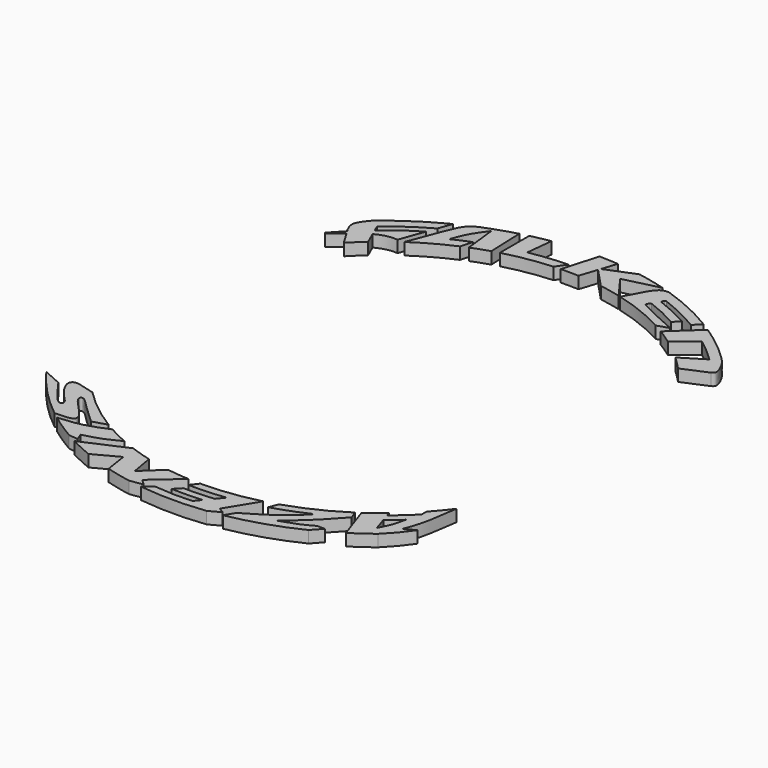
from build123d import *

# Parameters (mm, degrees)
F1_DEPTH = 2
F3_DEPTH = 2


with BuildPart() as f1:
    # F0 (on Top) → F1 (new body)
    with BuildSketch(Plane.XY):
        with BuildLine():
            ThreePointArc((26.2582889127, 28.6259775988), (27.3931080033, 27.5420036313), (28.4832176062, 26.4130771572))
            Line((28.4832176062, 26.4130771572), (32.5973681702, 28.1794866252))
            add(Edge.make_bspline(
                [(31.0981002601, 32.2813575249), (31.4402835186, 31.9296557978), (32.1412841128, 31.1525085066), (33.0599491094, 29.3843422979), (33.0908551063, 28.4427756858), (32.7474419474, 28.259593641), (32.5973681702, 28.1794866252)],
                knots=[0, 0, 0, 0, 0.2933334987, 0.6254018096, 0.836373223, 1, 1, 1, 1], degree=3))
            ThreePointArc((31.0981002601, 32.2813575249), (28.0081214449, 34.9960428701), (24.68231135, 37.4160579144))
            Line((24.68231135, 37.4160579144), (20.1408342523, 33.2158264346))
            ThreePointArc((20.1408342523, 33.2158264346), (21.4132390695, 32.4101453663), (22.6534570542, 31.5557477111))
            Line((22.6534570542, 31.5557477111), (26.1470646646, 34.3757998644))
            ThreePointArc((26.1470646646, 34.3757998644), (28.1718920467, 32.7369684822), (30.0942376703, 30.9790488223))
            Line((30.0942376703, 30.9790488223), (26.2582889127, 28.6259775988))
        make_face()
    extrude(amount=F1_DEPTH)


with BuildPart() as f1b:
    # F0 (on Top) → F1, piece 2 (new body)
    with BuildSketch(Plane.XY):
        with BuildLine():
            ThreePointArc((-28.0335926799, 26.8898124123), (-26.9033570604, 28.0205943725), (-25.7275480687, 29.1039103985))
            Line((-25.7275480687, 29.1039103985), (-26.6391176158, 31.1987231682))
            add(Edge.make_bspline(
                [(-26.6391176158, 31.1987231682), (-27.5035052922, 30.7377688529), (-28.4535119643, 30.0345111798), (-29.4392433492, 29.230151902)],
                knots=[0.5150023749, 0.5150023749, 0.5150023749, 0.5150023749, 0.7976336827, 0.7976336827, 0.7976336827, 0.7976336827], degree=3))
            Line((-29.4392433492, 29.230151902), (-28.0335926799, 26.8898124123))
        make_face()
        with BuildLine():
            add(Edge.make_bspline(
                [(-26.6391176158, 31.1987231682), (-27.5035052922, 30.7377688529), (-28.4535119643, 30.0345111798), (-29.4392433492, 29.230151902)],
                knots=[0.5150023749, 0.5150023749, 0.5150023749, 0.5150023749, 0.7976336827, 0.7976336827, 0.7976336827, 0.7976336827], degree=3))
            add(Edge.make_bspline(
                [(-23.0888687074, 31.9850742817), (-23.4276484172, 32.0063325219), (-24.283949242, 32.0600649272), (-25.6872002675, 31.7063546644), (-26.6391176158, 31.1987231682)],
                knots=[0, 0, 0, 0, 0.2037512403, 0.5150023749, 0.5150023749, 0.5150023749, 0.5150023749], degree=3))
            Line((-23.0888687074, 31.9850742817), (-21.5931204989, 36.1139637727))
            ThreePointArc((-21.5931204989, 36.1139637727), (-24.4137356115, 34.2702603688), (-27.0777714317, 32.2067621246))
            Line((-27.0777714317, 32.2067621246), (-27.5404240966, 33.2699511192))
            ThreePointArc((-27.5404240966, 33.2699511192), (-24.3751840736, 35.6541022643), (-21.0047500685, 37.7381117897))
            Line((-21.0047500685, 37.7381117897), (-20.1757696644, 40.0264437827))
            ThreePointArc((-20.1757696644, 40.0264437827), (-24.7902532423, 37.3446278281), (-29.053267131, 34.1333495639))
            add(Edge.make_bspline(
                [(-30.0712297066, 30.2823782209), (-30.2768548387, 30.7288172116), (-30.688157594, 31.6183899209), (-30.0455886032, 32.9442767829), (-29.4035461755, 33.7388064708), (-29.053267131, 34.1333495639)],
                knots=[0, 0, 0, 0, 0.3285202685, 0.651688533, 1, 1, 1, 1], degree=3))
            Line((-30.0712297066, 30.2823782209), (-29.7531671484, 29.7528196461))
            Line((-29.7531671484, 29.7528196461), (-31.7605539053, 27.5997907218))
            Line((-31.7605539053, 27.5997907218), (-31.5932482481, 27.3987054825))
            add(Edge.make_bspline(
                [(-29.4392433492, 29.230151902), (-30.1450350456, 28.6542241108), (-30.8691416468, 28.0264647966), (-31.5932482481, 27.3987054825)],
                knots=[0.7976336827, 0.7976336827, 0.7976336827, 0.7976336827, 1, 1, 1, 1], degree=3))
        make_face()
    extrude(amount=F1_DEPTH)


with BuildPart() as f1c:
    # F0 (on Top) → F1, piece 3 (new body)
    with BuildSketch(Plane.XY):
        with BuildLine():
            ThreePointArc((-21.9772970606, 32.0303409913), (-18.8129690759, 33.9855340499), (-15.476141974, 35.6291083205))
            Line((-15.476141974, 35.6291083205), (-14.9158977634, 37.6451386156))
            ThreePointArc((-14.9158977634, 37.6451386156), (-16.4193059824, 37.0141440335), (-17.8960931665, 36.3231374864))
            add(Edge.make_bspline(
                [(-15.0197381154, 41.5827184916), (-15.6187246454, 40.7912353478), (-16.8146461836, 39.1920038459), (-17.5415895432, 37.2941119434), (-17.8960931665, 36.3231374864)],
                knots=[0, 0, 0, 0, 0.4963820199, 1, 1, 1, 1], degree=3))
            Line((-15.0197381154, 41.5827184916), (-14.3913667376, 36.0809214618))
            ThreePointArc((-14.3913667376, 36.0809214618), (-12.9265769812, 36.6312426442), (-11.4408121381, 37.1221247739))
            Line((-11.4408121381, 37.1221247739), (-11.6697197257, 43.2781183158))
            ThreePointArc((-11.6697197257, 43.2781183158), (-14.4055360153, 42.4459469861), (-17.0827228781, 41.4410239075))
            add(Edge.make_bspline(
                [(-21.9772970606, 32.0303409913), (-21.2006366288, 34.0856755518), (-19.8865605361, 37.5894509534), (-18.6800928553, 40.5334365594), (-17.5710488372, 41.1866529421), (-17.0827228781, 41.4410239075)],
                knots=[0, 0, 0, 0, 0.4504457191, 0.7646007457, 1, 1, 1, 1], degree=3))
        make_face()
    extrude(amount=F1_DEPTH)


with BuildPart() as f1d:
    # F0 (on Top) → F1, piece 4 (new body)
    with BuildSketch(Plane.XY):
        with BuildLine():
            ThreePointArc((-10.2809115036, 37.4599411207), (-6.3408030761, 38.3241248623), (-2.3323204192, 38.7750514064))
            Line((-2.3323204192, 38.7750514064), (-1.1537274928, 40.4760346421))
            ThreePointArc((-1.1537274928, 40.4760346421), (-4.3576216427, 40.2573173609), (-7.5341078503, 39.7853953905))
            Line((-7.5341078503, 39.7853953905), (-7.0600686947, 44.264357145))
            ThreePointArc((-7.0600686947, 44.264357145), (-8.676309736, 43.9761245769), (-10.2809115036, 43.628898016))
            Line((-10.2809115036, 43.628898016), (-10.2809115036, 37.4599411207))
        make_face()
    extrude(amount=F1_DEPTH)


with BuildPart() as f1e:
    # F0 (on Top) → F1, piece 5 (new body)
    with BuildSketch(Plane.XY):
        with BuildLine():
            ThreePointArc((-1.1537274928, 38.8279956086), (0.3416184918, 38.8436304549), (1.8364581869, 38.8016977907))
            Line((1.8364581869, 38.8016977907), (2.8014320172, 41.7335159462))
            Line((2.8014320172, 41.7335159462), (5.9416488852, 38.3880337949))
            ThreePointArc((5.9416488852, 38.3880337949), (7.7292541226, 38.0683984535), (9.4999675803, 37.6655671149))
            Line((9.4999675803, 37.6655671149), (6.6716716152, 41.5447954636))
            Line((6.6716716152, 41.5447954636), (12.6044893248, 43.0151686303))
            ThreePointArc((12.6044893248, 43.0151686303), (10.2384241124, 43.638888106), (7.8418486994, 44.1325649879))
            Line((7.8418486994, 44.1325649879), (2.9362746302, 42.1431996172))
            Line((2.9362746302, 42.1431996172), (3.7664058475, 44.6653341018))
            ThreePointArc((3.7664058475, 44.6653341018), (2.1694049032, 44.771325263), (0.5696380277, 44.8202342247))
            Line((0.5696380277, 44.8202342247), (-1.1537274928, 38.8279956086))
        make_face()
    extrude(amount=F1_DEPTH)


with BuildPart() as f1f:
    # F0 (on Top) → F1, piece 6 (new body)
    with BuildSketch(Plane.XY):
        with BuildLine():
            ThreePointArc((9.8401867527, 37.578119362), (14.3187888015, 36.1097856179), (18.5865972152, 34.1098627096))
            Line((18.5865972152, 34.1098627096), (20.52414231, 34.7317233682))
            add(Edge.make_bspline(
                [(20.52414231, 34.7317233682), (19.1820271071, 35.2923512607), (16.9069582145, 36.3532880404), (14.7834996687, 37.383504279), (13.8984129971, 37.8670263978)],
                knots=[0, 0, 0, 0, 0.523945873, 0.9744418223, 0.9744418223, 0.9744418223, 0.9744418223], degree=3))
            ThreePointArc((13.8984129971, 37.8670263978), (13.814284528, 37.9695446818), (13.8248872297, 38.1017384055))
            Line((13.8248872297, 38.1017384055), (14.0431799453, 38.5383260572))
            ThreePointArc((14.0431799453, 38.5383260572), (14.137489648, 38.6242391204), (14.2650643086, 38.6245227159))
            add(Edge.make_bspline(
                [(19.530063495, 36.1705198884), (18.6315045568, 36.6629726021), (16.9098491293, 37.5701040966), (15.1220331412, 38.2959887351), (14.2650643086, 38.6245227159)],
                knots=[0, 0, 0, 0, 0.5039758893, 0.9726273638, 0.9726273638, 0.9726273638, 0.9726273638], degree=3))
            Line((19.530063495, 36.1705198884), (20.5503012985, 37.1645987034))
            add(Edge.make_bspline(
                [(20.5503012985, 37.1645987034), (19.5041253296, 37.7189203292), (17.5838857808, 38.7363689616), (15.8376674941, 39.4392548711), (15.0455915624, 39.7541801145)],
                knots=[0, 0, 0, 0, 0.5248873881, 0.9634225516, 0.9634225516, 0.9634225516, 0.9634225516], degree=3))
            ThreePointArc((15.0455915624, 39.7541801145), (14.942591447, 39.8639423823), (14.9611861862, 40.0133111036))
            Line((14.9611861862, 40.0133111036), (15.1405068255, 40.297692314))
            ThreePointArc((15.1405068255, 40.297692314), (15.2342369659, 40.3712354285), (15.3533501524, 40.3687904945))
            ThreePointArc((15.3533501524, 40.3687904945), (18.7908775239, 38.8878840869), (22.0872774466, 37.1149131995))
            Line((22.0872774466, 37.1149131995), (23.2727581453, 38.3087015148))
            ThreePointArc((23.2727581453, 38.3087015148), (18.8000944556, 40.6907155491), (14.0871522904, 42.552673521))
            add(Edge.make_bspline(
                [(9.8401867527, 37.578119362), (10.4356905315, 38.7476373946), (11.4537265821, 40.7442347283), (12.6146507969, 42.3476410039), (13.4983983359, 42.5508114295), (13.9056985036, 42.5688336221), (14.0871522904, 42.552673521)],
                knots=[0, 0, 0, 0, 0.3896962858, 0.66482844, 0.8470269389, 1, 1, 1, 1], degree=3))
        make_face()
    extrude(amount=F1_DEPTH)


with BuildPart() as f3:
    # F2 (on Top) → F3 (new body)
    with BuildSketch(Plane.XY):
        with BuildLine():
            ThreePointArc((-19.8470610316, -32.7244271318), (-23.7304977414, -30.0276112877), (-27.2517885788, -26.8725507155))
            add(Edge.make_bspline(
                [(-27.2517885788, -26.8725507155), (-28.0788842834, -26.6225845305), (-29.4993517598, -26.1932885809), (-30.8653966207, -25.9954442551), (-31.4230696327, -26.5561917717), (-31.3021732535, -27.611952944), (-30.0144885381, -29.5849223983), (-28.6251044701, -30.8384018372), (-28.3123646067, -31.4279188361), (-28.3746261005, -31.8293795015), (-29.1460513462, -31.9433971905), (-30.8947435626, -29.6791188216), (-31.934174577, -28.2389223302), (-32.461091876, -27.5088455528)],
                knots=[0, 0, 0, 0, 0.1228794116, 0.2110350793, 0.2721717201, 0.3480792723, 0.470188104, 0.5787089334, 0.6392988035, 0.6823618259, 0.7384896659, 0.867432935, 1, 1, 1, 1], degree=3))
            Line((-32.461091876, -27.5088455528), (-35.6186809362, -26.0928972103))
            ThreePointArc((-35.6186809362, -26.0928972103), (-31.8107592031, -30.6203415294), (-27.4317697007, -34.5980884955))
            add(Edge.make_bspline(
                [(-27.4317697007, -34.5980884955), (-26.6896000258, -34.5779160543), (-25.4338686145, -34.5325249129), (-24.3000294453, -34.2389796363), (-24.2483387254, -33.2353603941), (-25.883461408, -31.4386536129), (-27.5516915325, -29.7938915868), (-27.6339592507, -28.8589068797), (-26.8490060786, -28.93397863), (-25.6053565649, -30.3400278712), (-23.5206250605, -32.2514123968), (-22.2215149552, -33.4425009787)],
                knots=[0, 0, 0, 0, 0.1267045448, 0.2135413186, 0.2876724803, 0.4250648141, 0.5622004983, 0.6308527305, 0.6922157657, 0.8081230809, 1, 1, 1, 1], degree=3))
            Line((-22.2215149552, -33.4425009787), (-19.8470610316, -32.7244271318))
        make_face()
    extrude(amount=F3_DEPTH)


with BuildPart() as f3b:
    # F2 (on Top) → F3, piece 2 (new body)
    with BuildSketch(Plane.XY):
        with BuildLine():
            ThreePointArc((4.1731362086, -40.4661722481), (1.6326218432, -40.6480098916), (-0.9142923679, -40.6705081317))
            Line((-0.9142923679, -40.6705081317), (-1.9983645916, -41.7864997492))
            ThreePointArc((-1.9983645916, -41.7864997492), (0.5762841082, -41.830287101), (3.148749404, -41.7155894064))
            Line((3.148749404, -41.7155894064), (2.2870490793, -42.7665822208))
            add(Edge.make_bspline(
                [(-4.0507898666, -42.6212437451), (-2.8567916629, -42.7326726785), (-0.5862783812, -42.9445665261), (1.3628918859, -42.8238278631), (2.2870490793, -42.7665822208)],
                knots=[0, 0, 0, 0, 0.5258714905, 1, 1, 1, 1], degree=3))
            Line((-4.0507898666, -42.6212437451), (-5.5511854117, -43.8031283927))
            ThreePointArc((-5.5511854117, -43.8031283927), (-0.0351262234, -44.1534651257), (5.481483402, -43.8119054159))
            Line((5.481483402, -43.8119054159), (7.3630903361, -42.7885097751))
            Line((7.3630903361, -42.7885097751), (6.4263283275, -42.2147996724))
            Line((6.4263283275, -42.2147996724), (9.588141816, -37.0521456763))
            ThreePointArc((9.588141816, -37.0521456763), (4.8327538131, -37.9662804773), (0, -38.2726268069))
            Line((0, -38.2726268069), (-1.0032423929, -39.5537174836))
            ThreePointArc((-1.0032423929, -39.5537174836), (2.1004677478, -39.5106453669), (5.1912505821, -39.2244054061))
            Line((5.1912505821, -39.2244054061), (4.1731362086, -40.4661722481))
        make_face()
    extrude(amount=F3_DEPTH)


with BuildPart() as f3c:
    # F2 (on Top) → F3, piece 3 (new body)
    with BuildSketch(Plane.XY):
        with BuildLine():
            ThreePointArc((30.6927731078, -22.8636751563), (29.4539887292, -24.4388320228), (28.1344567786, -25.9469902777))
            Line((28.1344567786, -25.9469902777), (28.1344567786, -27.0250886679))
            Line((28.1344567786, -27.0250886679), (24.7914239377, -30.0658838374))
            Line((24.7914239377, -30.0658838374), (24.5619869854, -29.3513672259))
            ThreePointArc((24.5619869854, -29.3513672259), (23.1486237911, -30.4784379403), (21.6836171457, -31.5375127456))
            Line((21.6836171457, -31.5375127456), (23.6601067004, -37.2790700982))
            ThreePointArc((23.6601067004, -37.2790700982), (25.4144582228, -36.105886358), (27.1107450873, -34.850211151))
            add(Edge.make_bspline(
                [(30.4980836809, -30.8185182512), (30.0027426474, -31.5173851174), (28.9868792163, -32.9169972396), (27.7539307631, -34.2165783638), (27.1107450873, -34.850211151)],
                knots=[0, 0, 0, 0, 0.4945575154, 1, 1, 1, 1], degree=3))
            Line((30.4980836809, -30.8185182512), (28.7343524396, -31.7543745041))
            add(Edge.make_bspline(
                [(30.6927731078, -22.8636751563), (30.4144220404, -24.9518454437), (29.9288262815, -28.5947509467), (29.0916473445, -30.8092576176), (28.7343524396, -31.7543745041)],
                knots=[0, 0, 0, 0, 0.5732156065, 1, 1, 1, 1], degree=3))
        make_face()
        with BuildLine():
            Line((25.9335879236, -33.6228311062), (25.2142271856, -31.3825851836))
            Line((25.2142271856, -31.3825851836), (27.4799652398, -29.4310487807))
            add(Edge.make_bspline(
                [(27.4799652398, -29.4310487807), (27.3345662304, -30.115533736), (27.0353707012, -31.5240360316), (26.3076570871, -32.9102636803), (25.9335879236, -33.6228311062)],
                knots=[0, 0, 0, 0, 0.4859665174, 1, 1, 1, 1], degree=3))
        make_face(mode=Mode.SUBTRACT)
    extrude(amount=F3_DEPTH)


with BuildPart() as f3d:
    # F2 (on Top) → F3, piece 4 (new body)
    with BuildSketch(Plane.XY):
        with BuildLine():
            ThreePointArc((20.9740845668, -32.0137742118), (16.4939700309, -34.5361103096), (11.7162060574, -36.4352093218))
            Line((11.7162060574, -36.4352093218), (11.1344441931, -37.9674494084))
            ThreePointArc((11.1344441931, -37.9674494084), (14.1279367549, -36.9581447738), (17.0313672255, -35.7132411368))
            add(Edge.make_bspline(
                [(8.9086256921, -41.807256639), (10.2558349505, -41.0377050302), (12.9080959883, -39.5382412074), (16.5090118009, -36.4242900324), (16.9225009417, -35.8849099671), (17.0313672255, -35.7132411368)],
                knots=[0, 0, 0, 0, 0.4227073661, 0.831986091, 1, 1, 1, 1], degree=3))
            Line((8.9086256921, -41.807256639), (7.9120522951, -43.4387976921))
            ThreePointArc((7.9120522951, -43.4387976921), (13.7396987364, -41.9612963943), (19.3126098088, -39.7058285247))
            Line((19.3126098088, -39.7058285247), (20.7725632936, -38.0927063525))
            Line((20.7725632936, -38.0927063525), (19.4793175906, -38.0927063525))
            add(Edge.make_bspline(
                [(14.3525190651, -40.2404181659), (15.4228236263, -39.8935216932), (17.4021643719, -39.2519974506), (18.825591473, -38.4575609342), (19.4793175906, -38.0927063525)],
                knots=[0, 0, 0, 0, 0.5407379015, 1, 1, 1, 1], degree=3))
            add(Edge.make_bspline(
                [(21.4845405536, -33.3472733799), (20.4859687565, -34.4763285058), (18.3420701991, -36.8738400395), (15.7353680148, -39.0735026735), (14.3525190651, -40.2404181659)],
                knots=[0.0383854953, 0.0383854953, 0.0383854953, 0.0383854953, 0.4898659249, 1, 1, 1, 1], degree=3))
            Line((21.4845405536, -33.3472733799), (20.9740845668, -32.0137742118))
        make_face()
    extrude(amount=F3_DEPTH)


with BuildPart() as f3e:
    # F2 (on Top) → F3, piece 5 (new body)
    with BuildSketch(Plane.XY):
        with BuildLine():
            ThreePointArc((-2.0478203775, -38.2178020614), (-3.9013851649, -38.073260387), (-5.7457435331, -37.8388741105))
            Line((-5.7457435331, -37.8388741105), (-8.9486721447, -40.865955136))
            Line((-8.9486721447, -40.865955136), (-9.6032538529, -37.0482317815))
            ThreePointArc((-9.6032538529, -37.0482317815), (-11.3929990021, -36.5375633621), (-13.1558017914, -35.940490285))
            Line((-13.1558017914, -35.940490285), (-20.4269766744, -39.14419932))
            ThreePointArc((-20.4269766744, -39.14419932), (-18.5926072839, -40.0480295501), (-16.7183559982, -40.865955136))
            Line((-16.7183559982, -40.865955136), (-12.6238742885, -38.6725220302))
            Line((-12.6238742885, -38.6725220302), (-12.0259371965, -42.4841917777))
            ThreePointArc((-12.0259371965, -42.4841917777), (-9.9529273689, -43.0170774606), (-7.8565284577, -43.4488742898))
            Line((-7.8565284577, -43.4488742898), (-5.6467281348, -43.1224302903))
            Line((-5.6467281348, -43.1224302903), (-6.6044111736, -42.1921387315))
            Line((-6.6044111736, -42.1921387315), (-2.0478203775, -38.2178020614))
        make_face()
    extrude(amount=F3_DEPTH)


with BuildPart() as f3f:
    # F2 (on Top) → F3, piece 6 (new body)
    with BuildSketch(Plane.XY):
        with BuildLine():
            ThreePointArc((-15.2939903313, -35.084010923), (-16.9780179509, -34.3007415249), (-18.6220638427, -33.4366969203))
            add(Edge.make_bspline(
                [(-26.4182318899, -35.3780545009), (-25.0582881307, -35.2677318402), (-22.3292645139, -35.0026370251), (-19.8532144956, -33.9610544443), (-18.6220638427, -33.4366969203)],
                knots=[0, 0, 0, 0, 0.5024756111, 1, 1, 1, 1], degree=3))
            ThreePointArc((-26.4182318899, -35.3780545009), (-24.2859446645, -36.8744167169), (-22.0691250948, -38.2424297608))
            Line((-22.0691250948, -38.2424297608), (-20.5077994615, -38.4496189654))
            Line((-20.5077994615, -38.4496189654), (-20.9411066025, -37.2219160199))
            add(Edge.make_bspline(
                [(-15.2939903313, -35.084010923), (-16.2345698092, -35.5538961161), (-18.0900720936, -36.5355987166), (-19.99980073, -36.9762537429), (-20.9411066025, -37.2219160199)],
                knots=[0, 0, 0, 0, 0.509179942, 1, 1, 1, 1], degree=3))
        make_face()
    extrude(amount=F3_DEPTH)


solid = Compound([f1.part, f1b.part, f1c.part, f1d.part, f1e.part, f1f.part, f3.part, f3b.part, f3c.part, f3d.part, f3e.part, f3f.part])
